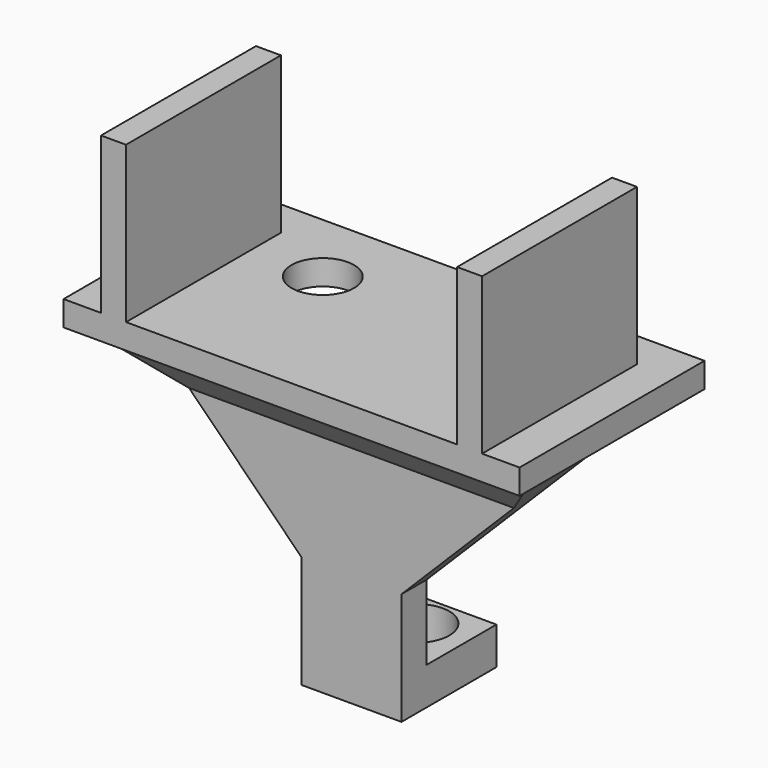
from build123d import *

# Parameters (mm, degrees)
SKETCH_W        = 73
SKETCH_H        = 37
PAD_DEPTH       = 4
SKETCH001_W     = 4
SKETCH001_H     = 31
PAD001_DEPTH    = 25
SKETCH002_W     = 16
SKETCH002_H     = 5
PAD002_DEPTH    = 46
SKETCH003_W     = 16
SKETCH003_H     = 6
PAD003_DEPTH    = 14
SKETCH004_R     = 5.25
POCKET_DEPTH    = 6
CHAMFER_SIZE    = 28
CHAMFER001_SIZE = 28
CHAMFER002_SIZE = 10
SKETCH005_R     = 5
POCKET001_DEPTH = 5


with BuildPart() as part:
    # Sketch → Pad (new body)
    with BuildSketch(Plane.XY):
        Rectangle(SKETCH_W, SKETCH_H)
    extrude(amount=PAD_DEPTH)

    # Sketch001 (on Face6 of Pad) → Pad001 (join)
    with BuildSketch(Plane.XY.offset(4)):
        with Locations((-28.5, -3)):
            Rectangle(SKETCH001_W, SKETCH001_H)
        with Locations((28.5, -3)):
            Rectangle(SKETCH001_W, SKETCH001_H)
    extrude(amount=PAD001_DEPTH)

    # Sketch002 (on Face4 of Pad001) → Pad002 (join)
    with BuildSketch(Plane(origin=(0, 0, 0), x_dir=(1, 0, 0), z_dir=(0, 0, -1))):
        with Locations((0, 4)):
            Rectangle(SKETCH002_W, SKETCH002_H)
    extrude(amount=PAD002_DEPTH)

    # Sketch003 (on Face8 of Pad002) → Pad003 (join)
    with BuildSketch(Plane(origin=(0, -1.5, 0), x_dir=(-1, 0, 0), z_dir=(0, 1, 0))):
        with Locations((0, -43)):
            Rectangle(SKETCH003_W, SKETCH003_H)
    extrude(amount=PAD003_DEPTH)

    # Sketch004 (on Face25 of Pad003) → Pocket (cut)
    with BuildSketch(Plane(origin=(0, 0, -46), x_dir=(1, 0, 0), z_dir=(0, 0, -1))):
        with Locations((0, -6.5)):
            Circle(SKETCH004_R)
    extrude(amount=-POCKET_DEPTH, mode=Mode.SUBTRACT)

    # Chamfer
    chamfer_edges = [part.edges().sort_by_distance(p)[0] for p in [
        (8, -4, 0),
    ]]
    chamfer(chamfer_edges, length=CHAMFER_SIZE)

    # Chamfer001
    chamfer001_edges = [part.edges().sort_by_distance(p)[0] for p in [
        (-8, -4, 0),
    ]]
    chamfer(chamfer001_edges, length=CHAMFER001_SIZE)

    # Chamfer002
    chamfer002_edges = [part.edges().sort_by_distance(p)[0] for p in [
        (0, -6.5, 0),
    ]]
    chamfer(chamfer002_edges, length=CHAMFER002_SIZE)

    # Sketch005 (on Face1 of Chamfer002) → Pocket001 (cut)
    with BuildSketch(Plane(origin=(0, 0, 0), x_dir=(1, 0, 0), z_dir=(0, 0, -1))):
        with Locations((15, -6.5)):
            Circle(SKETCH005_R)
        with Locations((-15, -6.5)):
            Circle(SKETCH005_R)
    extrude(amount=-POCKET001_DEPTH, mode=Mode.SUBTRACT)


solid = part.part
